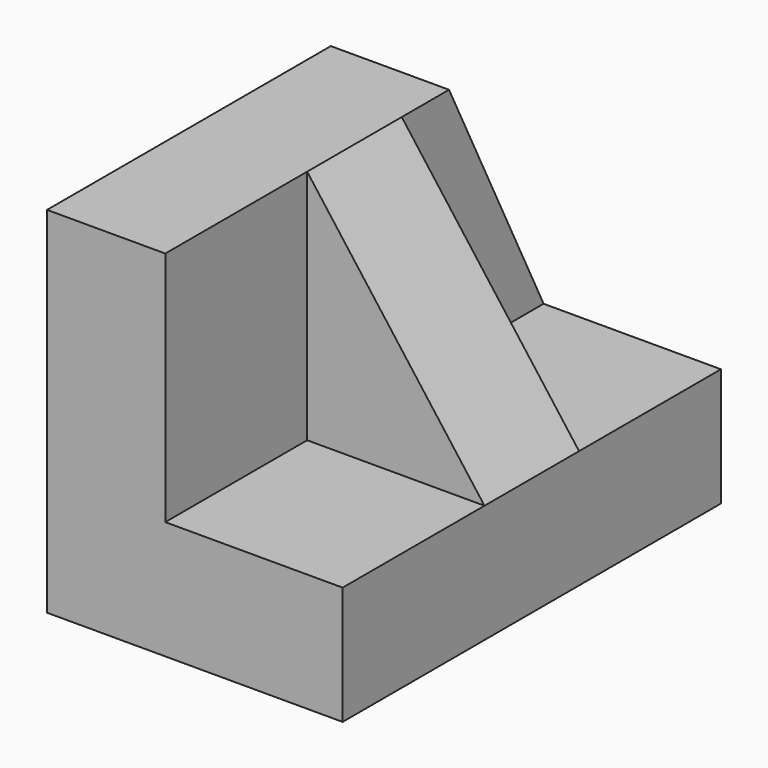
from build123d import *

# Parameters (mm, degrees)
F0_W     = 50.8
F0_H     = 38.1
F1_DEPTH = 31.75
F3_DEPTH = 31.75
F5_DEPTH = 19.05
F7_DEPTH = 12.7
F8_W     = 19.05
F8_H     = 25.4
F9_DEPTH = 19.05


with BuildPart() as f1:
    # F0 (on Right) → F1 (new body)
    with BuildSketch(Plane.YZ):
        with Locations((25.4, 19.05)):
            Rectangle(F0_W, F0_H)
    extrude(amount=F1_DEPTH)

    # F2 (on face) → F3 (cut)
    with BuildSketch(Plane.YZ.offset(31.75)):
        Polygon((50.8, 12.7), (50.8, 38.1), (38.1, 38.1), align=None)
    extrude(amount=-F3_DEPTH, mode=Mode.SUBTRACT)

    # F4 (on face) → F5 (cut)
    with BuildSketch(Plane.YZ.offset(31.75)):
        Polygon((31.75, 12.7), (50.8, 12.7), (38.1, 38.1), (31.75, 38.1), align=None)
    extrude(amount=-F5_DEPTH, mode=Mode.SUBTRACT)

    # F6 (on face) → F7 (cut)
    with BuildSketch(Plane(origin=(0, 31.75, 0), x_dir=(-1, 0, 0), z_dir=(0, 1, 0))):
        Polygon((-31.75, 38.1), (-31.75, 12.7), (-12.7, 38.1), align=None)
    extrude(amount=-F7_DEPTH, mode=Mode.SUBTRACT)

    # F8 (on face) → F9 (cut)
    with BuildSketch(Plane.YZ.offset(31.75)):
        with Locations((9.525, 25.4)):
            Rectangle(F8_W, F8_H)
    extrude(amount=-F9_DEPTH, mode=Mode.SUBTRACT)


solid = f1.part
